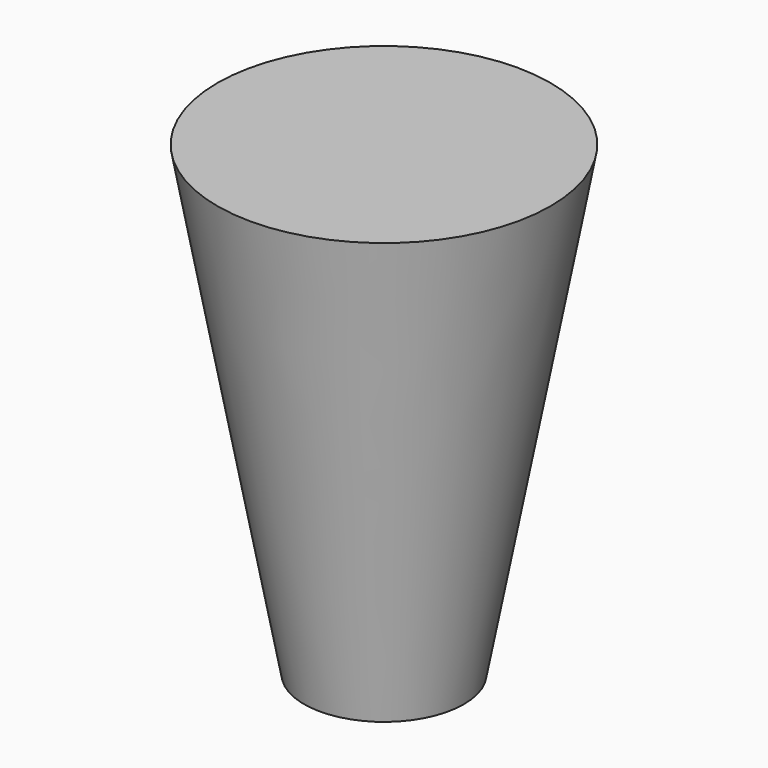
from build123d import *

# Parameters (mm, degrees)
F0_R = 6
F3_R = 12.5


with BuildPart() as f4:
    # F0 (on Top) → F4 section 0
    with BuildSketch(Plane.XY):
        Circle(F0_R)
    # F3 (on face) → F4 section 1
    with BuildSketch(Plane.XY.offset(35)):
        Circle(F3_R)
    loft()


solid = f4.part
